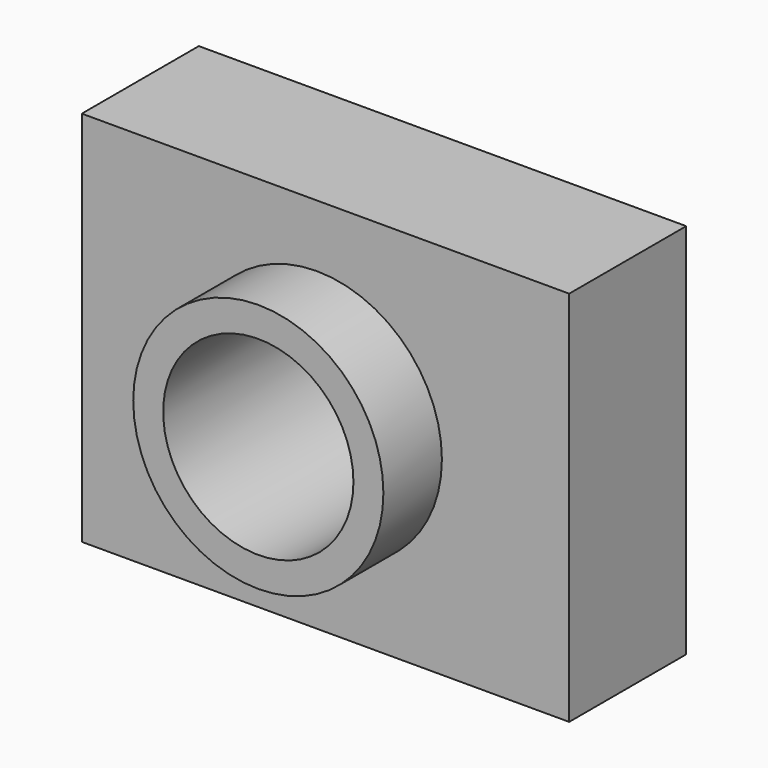
from build123d import *

# Parameters (mm, degrees)
F0_R     = 21.720665
F0_R_2   = 16.520494
F1_DEPTH = 38.1
F0_W     = 84.640459
F0_H     = 65.472521
F2_DEPTH = 25.4


with BuildPart() as f1:
    # F0 (on Front) → F1 (new body)
    with BuildSketch(Plane.XZ):
        Circle(F0_R)
        Circle(F0_R_2, mode=Mode.SUBTRACT)
    extrude(amount=F1_DEPTH)

    # F0 (on Front) → F2 (join)
    with BuildSketch(Plane.XZ):
        with Locations((1.507592, -0.216593)):
            Rectangle(F0_W, F0_H)
        Circle(F0_R, mode=Mode.SUBTRACT)
    extrude(amount=F2_DEPTH)


solid = f1.part
